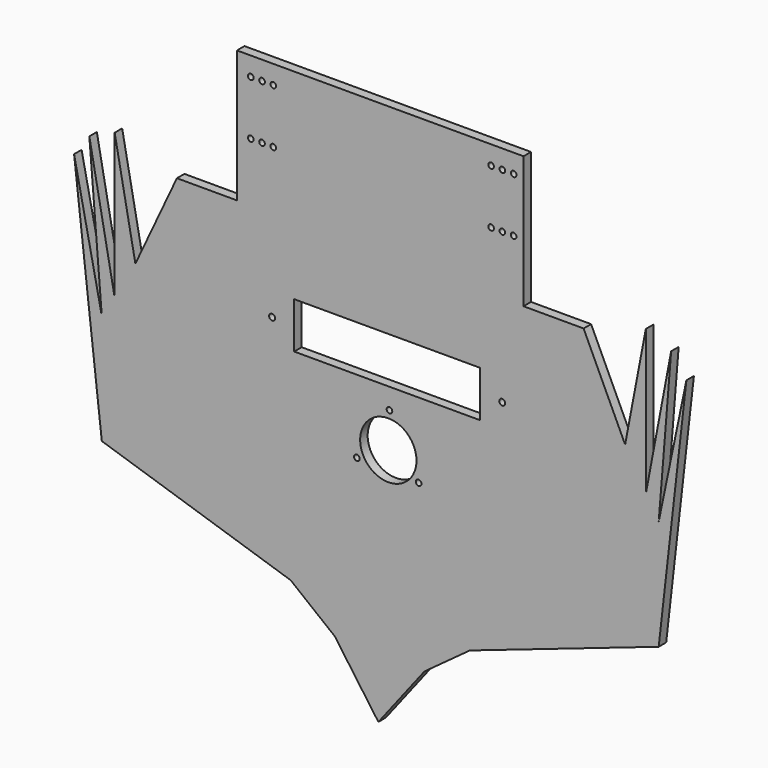
from build123d import *

# Parameters (mm, degrees)
F0_R     = 1.5
F0_R_2   = 15
F0_R_3   = 1.6
F1_DEPTH = 5


with BuildPart() as f1:
    # F0 (on Front) → F1 (new body)
    with BuildSketch(Plane.XZ):
        Polygon((-95.215014, -129.747017), (-127.215014, 6.505085), (-167.207072, -129.747017), (-66.610152, -162.277201), align=None)
        Polygon((-167.207072, -129.747017), (-127.215014, 6.505085), (-149.325683, -40.773675), (-160.356646, 17.078567), (-160.356646, -60.307577), (-173.846093, 10.983265), (-167.207072, -71.117923), (-181.971626, 0), align=None)
        Polygon((-95.215014, -67.651076), (-95.215014, 6.505085), (-127.215014, 6.505085), (-95.215014, -129.747017), align=None)
        Polygon((57.384247, 76.831163), (-95.215014, 76.831163), (-95.215014, 6.505085), (-95.215014, -67.651076), (-95.215014, -129.747017), (57.384247, -129.747017), (57.384247, 6.505085), align=None)
        with Locations((-31.362006, -93.389101)):
            Circle(F0_R, mode=Mode.SUBTRACT)
        with Locations((1.530393, -94.433197)):
            Circle(F0_R, mode=Mode.SUBTRACT)
        with Locations((-14.614402, -84.415931)):
            Circle(F0_R_2, mode=Mode.SUBTRACT)
        with Locations((-87.864702, 37.831163)):
            Circle(F0_R, mode=Mode.SUBTRACT)
        with Locations((-81.864702, 37.831163)):
            Circle(F0_R, mode=Mode.SUBTRACT)
        with Locations((-75.864702, 37.831163)):
            Circle(F0_R, mode=Mode.SUBTRACT)
        with Locations((-87.864702, 66.831163)):
            Circle(F0_R, mode=Mode.SUBTRACT)
        with Locations((-81.864702, 66.831163)):
            Circle(F0_R, mode=Mode.SUBTRACT)
        with Locations((-75.864702, 66.831163)):
            Circle(F0_R, mode=Mode.SUBTRACT)
        with Locations((-14.011593, -65.425496)):
            Circle(F0_R, mode=Mode.SUBTRACT)
        Polygon((-64.727126, -54.446236), (-80.514174, -42.167428), (-64.727126, -29.888621), (34.272874, -29.888621), (50.059922, -42.167428), (34.272874, -54.446236), align=None, mode=Mode.SUBTRACT)
        with Locations((40.135298, 37.831163)):
            Circle(F0_R, mode=Mode.SUBTRACT)
        with Locations((46.135298, 37.831163)):
            Circle(F0_R, mode=Mode.SUBTRACT)
        with Locations((52.135298, 37.831163)):
            Circle(F0_R, mode=Mode.SUBTRACT)
        with Locations((40.135298, 66.831163)):
            Circle(F0_R, mode=Mode.SUBTRACT)
        with Locations((46.135298, 66.831163)):
            Circle(F0_R, mode=Mode.SUBTRACT)
        with Locations((52.135298, 66.831163)):
            Circle(F0_R, mode=Mode.SUBTRACT)
        Polygon((4.579908, -181.889075), (28.792646, -164.176275), (-19.206401, -178.179541), (-66.610152, -162.277201), (-43.121491, -180.939538), (-19.632831, -199.601876), align=None)
        Polygon((28.792646, -164.176275), (57.384247, -129.747017), (-95.215014, -129.747017), (-66.610152, -162.277201), (-19.206401, -178.179541), align=None)
        Polygon((-19.909801, -213.515871), (4.579908, -181.889075), (-19.632831, -199.601876), (-43.121491, -180.939538), align=None)
        Polygon((89.384247, 6.505085), (57.384247, -129.747017), (28.792646, -164.176275), (129.376305, -129.747017), align=None)
        Polygon((89.384247, 6.505085), (57.384247, 6.505085), (57.384247, -129.747017), align=None)
        Polygon((111.494916, -40.773675), (89.384247, 6.505085), (129.376305, -129.747017), (144.140858, 0), (129.376305, -71.117923), (136.015325, 10.983265), (122.525878, -60.307577), (122.525878, 17.078567), align=None)
        Polygon((-64.727126, -29.888621), (-80.514174, -42.167428), (-64.727126, -54.446236), align=None)
        with Locations((-76.514174, -42.167428)):
            Circle(F0_R_3, mode=Mode.SUBTRACT)
        Polygon((50.059922, -42.167428), (34.272874, -29.888621), (34.272874, -54.446236), align=None)
        with Locations((46.059922, -42.167428)):
            Circle(F0_R_3, mode=Mode.SUBTRACT)
    extrude(amount=F1_DEPTH)


solid = f1.part
